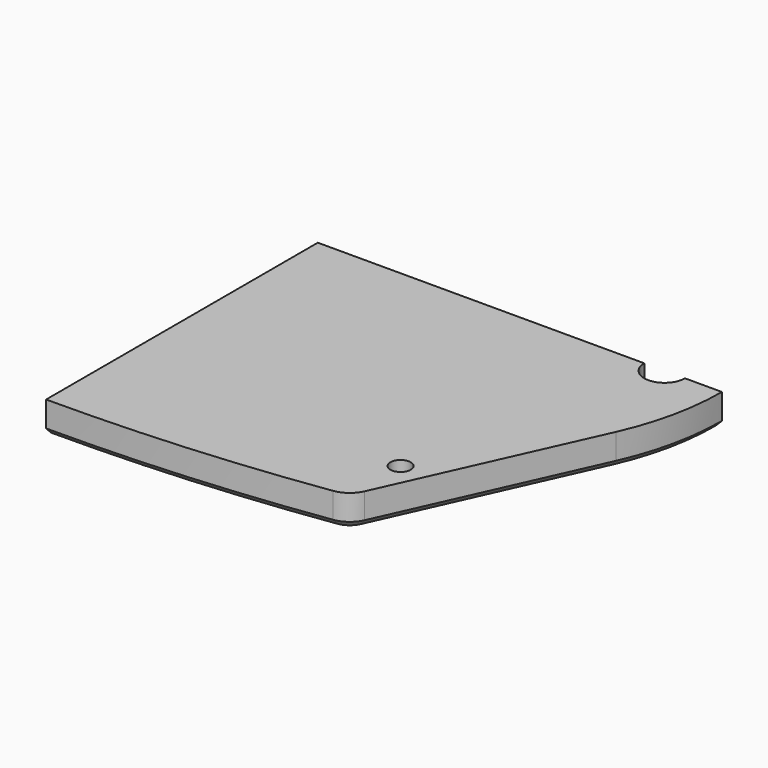
from build123d import *

# Parameters (mm, degrees)
PAD001_DEPTH    = 5
SKETCH014_R     = 1.6
SKETCH014_R_2   = 3.2
POCKET003_DEPTH = 5.001
SKETCH015_R     = 2.85
POCKET004_DEPTH = 3
FILLET001_R     = 4
CHAMFER_SIZE    = 1


with BuildPart() as part:
    # Sketch010 → Pad001 (new body)
    with BuildSketch(Plane.XY):
        with BuildLine():
            Line((44.86111, -50), (59.975919, -16.416677))
            ThreePointArc((59.975919, -16.416677), (62.609058, -8.395333), (63.5, 0))
            Line((57.7, 0), (63.5, 0))
            ThreePointArc((51.3, 0), (54.5, -3.2), (57.7, 0))
            Line((0, 0), (51.3, 0))
            Line((0, -53.373162), (0, 0))
            ThreePointArc((0, -53.373162), (22.493874, -52.528683), (44.86111, -50))
        make_face()
    extrude(amount=-PAD001_DEPTH)

    # Sketch014 (on Face9 of Pad001) → Pocket003 (cut, through all)
    with BuildSketch(Plane(origin=(0, 0, -5), x_dir=(1, 0, 0), z_dir=(0, 0, -1))):
        with Locations((45, 40)):
            Circle(SKETCH014_R)
        with Locations((54.5, 0)):
            Circle(SKETCH014_R_2)
    extrude(amount=-POCKET003_DEPTH, mode=Mode.SUBTRACT)

    # Sketch015 (on Face5 of Pocket003) → Pocket004 (cut)
    with BuildSketch(Plane(origin=(0, 0, -5), x_dir=(1, 0, 0), z_dir=(0, 0, -1))):
        with Locations((45, 40)):
            Circle(SKETCH015_R)
    extrude(amount=-POCKET004_DEPTH, mode=Mode.SUBTRACT)

    # Fillet001
    fillet001_edges = [part.edges().sort_by_distance(p)[0] for p in [
        (44.86111, -50, -2.5),
    ]]
    fillet(fillet001_edges, radius=FILLET001_R)

    # Chamfer
    chamfer_edges = [part.edges().sort_by_distance(p)[0] for p in [
        (21.394971, -52.609282, -5),
    ]]
    chamfer(chamfer_edges, length=CHAMFER_SIZE)


solid = part.part
